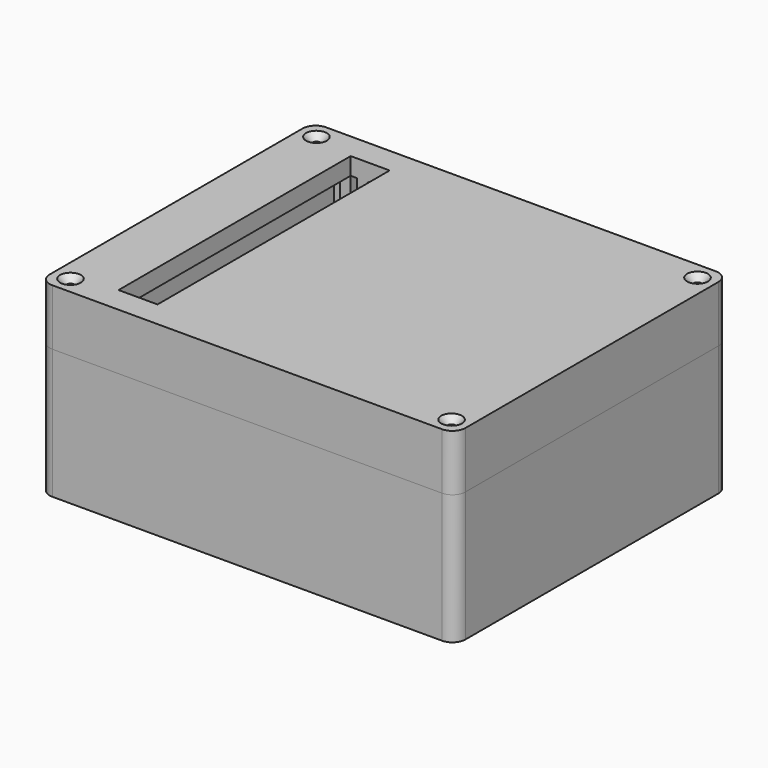
from build123d import *

# Parameters (mm, degrees)
F0_W            = 96
F0_H            = 79
F1_DEPTH        = 26
F2_W            = 96
F2_H            = 79
F3_DEPTH        = 4
F4_W            = 70.5
F4_H            = 2.5
F5_DEPTH        = 5
F6_W            = 96
F6_H            = 79
F7_DEPTH        = 9
F8_W            = 96
F8_H            = 79
F9_DEPTH        = 4
F10_W           = 9
F10_H           = 67
F11_DEPTH       = 10
F12_R           = 0.925
F13_DEPTH       = 25
F15_D           = 1.9
F15_CSINK_D     = 4.8
F15_CSINK_ANGLE = 90
F16_DEPTH       = 15
F17_R           = 3
F17_2_R         = 3


with BuildPart() as f1:
    # F0 (on Top) → F1 (new body)
    with BuildSketch(Plane.XY):
        with Locations((-48, -39.5)):
            Rectangle(F0_W, F0_H)
        Polygon((-88, -75), (-88, -4), (-85, -4), (-85, -6), (-82.5, -6), (-82.5, -4), (-81, -4), (-81, -6), (-78.5, -6), (-78.5, -4), (-8, -4), (-8, -75), (-78.5, -75), (-78.5, -73), (-81, -73), (-81, -75), (-82.5, -75), (-82.5, -73), (-85, -73), (-85, -75), align=None, mode=Mode.SUBTRACT)
    extrude(amount=F1_DEPTH)

    # F2 (on Top) → F3 (join)
    with BuildSketch(Plane.XY):
        with Locations((-48, -39.5)):
            Rectangle(F2_W, F2_H)
    extrude(amount=-F3_DEPTH)

    # F4 (on Top) → F5 (join)
    with BuildSketch(Plane.XY):
        with Locations((-43.25, -5.25)):
            Rectangle(F4_W, F4_H)
        with Locations((-43.25, -73.75)):
            Rectangle(F4_W, F4_H)
    extrude(amount=F5_DEPTH)

    # F12 (on face) → F16 (cut)
    with BuildSketch(Plane.XY.offset(26)):
        with Locations((-92, -4)):
            Circle(F12_R)
        with Locations((-4, -4)):
            Circle(F12_R)
        with Locations((-4, -75)):
            Circle(F12_R)
        with Locations((-92, -75)):
            Circle(F12_R)
    extrude(amount=-F16_DEPTH, mode=Mode.SUBTRACT)

    # F17
    f17_edges = [f1.edges().sort_by_distance(p)[0] for p in [
        (0, -79, 11),
        (-96, -79, 11),
        (0, 0, 11),
        (-96, 0, 11),
    ]]
    fillet(f17_edges, radius=F17_R)


with BuildPart() as f7:
    # F6 (on face) → F7 (new body)
    with BuildSketch(Plane.XY.offset(26)):
        with Locations((-48, -39.5)):
            Rectangle(F6_W, F6_H)
        Polygon((-88, -75), (-88, -4), (-85, -4), (-85, -6), (-82.5, -6), (-82.5, -4), (-81, -4), (-81, -6), (-78.5, -6), (-78.5, -4), (-8, -4), (-8, -75), (-78.5, -75), (-78.5, -73), (-81, -73), (-81, -75), (-82.5, -75), (-82.5, -73), (-85, -73), (-85, -75), align=None, mode=Mode.SUBTRACT)
    extrude(amount=F7_DEPTH)

    # F8 (on face) → F9 (join)
    with BuildSketch(Plane.XY.offset(35)):
        with Locations((-48, -39.5)):
            Rectangle(F8_W, F8_H)
    extrude(amount=F9_DEPTH)

    # F10 (on face) → F11 (cut)
    with BuildSketch(Plane(origin=(0, 0, 35), x_dir=(1, 0, 0), z_dir=(0, 0, -1))):
        with Locations((-78, 39.5)):
            Rectangle(F10_W, F10_H)
    extrude(amount=-F11_DEPTH, mode=Mode.SUBTRACT)

    # F12 (on face) → F13 (cut)
    with BuildSketch(Plane.XY.offset(26)):
        with Locations((-92, -4)):
            Circle(F12_R)
        with Locations((-4, -4)):
            Circle(F12_R)
        with Locations((-4, -75)):
            Circle(F12_R)
        with Locations((-92, -75)):
            Circle(F12_R)
    extrude(amount=F13_DEPTH, mode=Mode.SUBTRACT)

    # F15 (through all)
    with Locations(Plane.XY.offset(39)):
        with Locations((-92, -4), (-92, -75), (-4, -75), (-4, -4)):
            CounterSinkHole(F15_D / 2, F15_CSINK_D / 2, counter_sink_angle=F15_CSINK_ANGLE)

    # F17#2
    f17_2_edges = [f7.edges().sort_by_distance(p)[0] for p in [
        (0, -79, 32.5),
        (-96, -79, 32.5),
        (0, 0, 32.5),
        (-96, 0, 32.5),
    ]]
    fillet(f17_2_edges, radius=F17_2_R)


solid = Compound([f1.part, f7.part])
